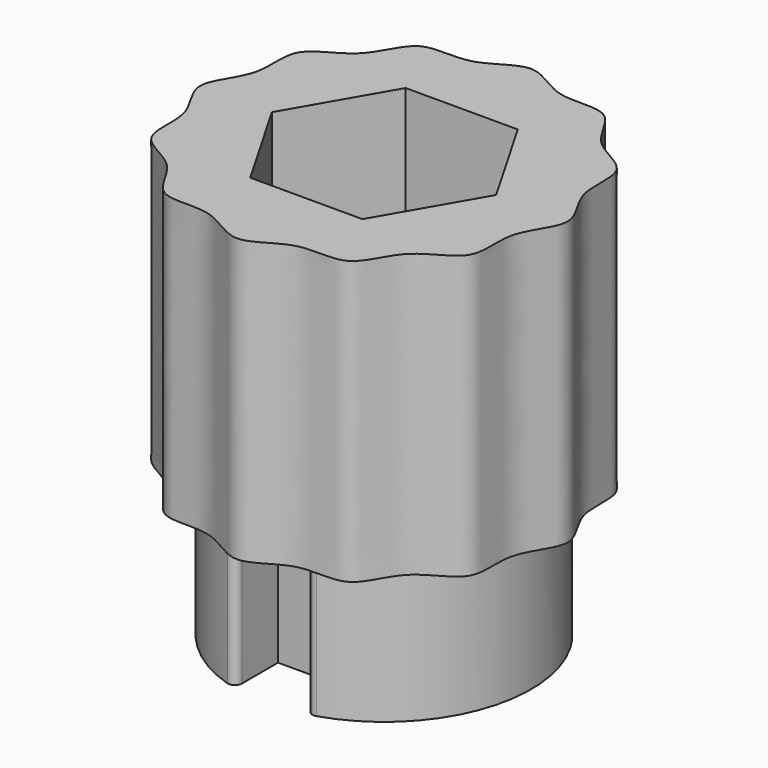
from build123d import *

# Parameters (mm, degrees)
F0_R     = 6.25
F1_DEPTH = 12
F3_DEPTH = 6
F5_D     = 6.7564
F5_DEPTH = 5
F5_TIP   = 2.0298273432
F7_DEPTH = 11
F8_SIZE2 = 2
F8_SIZE  = 2


with BuildPart() as f1:
    # F0 (on Top) → F1 (new body)
    with BuildSketch(Plane.XY):
        with BuildLine():
            add(Edge.make_bspline(
                [(0, 7.8), (0.5883139084, 7.8), (1.7648983071, 6.581238644), (4.2073373033, 7.281213243), (4.8207666232, 4.8153151324), (7.2853412597, 4.2000850536), (6.5828646863, 1.758421816), (8.4092642189, -0.0061086196), (6.5800656799, -1.7685747108), (7.2799326458, -4.209179628), (4.8151686103, -4.820620006), (4.2019286894, -7.2840624881), (1.7620993007, -6.5816954962), (0, -8.4091297457), (-1.7620993007, -6.5816954962), (-4.2019286894, -7.2840624881), (-4.8151686103, -4.820620006), (-7.2799326458, -4.209179628), (-6.5800656799, -1.7685747108), (-8.4092642189, -0.0061086196), (-6.5828646863, 1.758421816), (-7.2853412597, 4.2000850536), (-4.8207666232, 4.8153151324), (-4.2073373033, 7.281213243), (-1.7648983071, 6.581238644), (-0.5883139084, 7.8), (0, 7.8)],
                knots=[0, 0, 0, 0, 0.0416817217, 0.0833603673, 0.125041132, 0.166713492, 0.2083895228, 0.2500540709, 0.2917228585, 0.3333801616, 0.3750411367, 0.4166937036, 0.4583483907, 0.5, 0.5416516093, 0.5833062964, 0.6249588633, 0.6666198384, 0.7082771415, 0.7499459291, 0.7916104772, 0.833286508, 0.874958868, 0.9166396327, 0.9583182783, 1, 1, 1, 1], degree=3))
        make_face()
        with Locations((0.0057487868, -0.0057487868)):
            Circle(F0_R, mode=Mode.SUBTRACT)
        with Locations((0.0057487868, -0.0057487868)):
            Circle(F0_R)
    extrude(amount=F1_DEPTH)

    # F2 (on face) → F3 (join)
    with BuildSketch(Plane(origin=(0, 0, 0), x_dir=(1, 0, 0), z_dir=(0, 0, -1))):
        with BuildLine():
            ThreePointArc((-1.5, 5.6711991677), (-1.6228374909, 5.913301306), (-1.8907563025, 5.9571419829))
            ThreePointArc((-1.8907563025, 5.9571419829), (0, -6.25), (1.8907563025, 5.9571419829))
            ThreePointArc((1.8907563025, 5.9571419829), (1.6228374909, 5.913301306), (1.5, 5.6711991677))
            Line((1.5, 5.6711991677), (1.5, 3.75))
            Line((1.5, 3.75), (-1.5, 3.75))
            Line((-1.5, 3.75), (-1.5, 5.6711991677))
        make_face()
    extrude(amount=F3_DEPTH)

    # F5
    with Locations(Plane(origin=(0, 0, -6), x_dir=(1, 0, 0), z_dir=(0, 0, -1))):
        with Locations((0, 0)):
            Hole(F5_D / 2, depth=F5_DEPTH)
            with Locations((0, 0, -(F5_DEPTH + F5_TIP / 2))):  # 118° drill point
                Cone(0, F5_D / 2, F5_TIP, mode=Mode.SUBTRACT)

    # F6 (on face) → F7 (cut)
    with BuildSketch(Plane.XY.offset(12)):
        Polygon((2.3815698604, 4.125), (-2.3815698604, 4.125), (-4.7631397208, 0), (-2.3815698604, -4.125), (2.3815698604, -4.125), (4.7631397208, 0), align=None)
    extrude(amount=-F7_DEPTH, mode=Mode.SUBTRACT)

    # F8
    f8_edges = [f1.edges().sort_by_distance(p)[0] for p in [
        (3.572355, 2.0625, 1),
        (0, 4.125, 1),
        (-3.572355, 2.0625, 1),
        (-3.572355, -2.0625, 1),
        (0, -4.125, 1),
        (3.572355, -2.0625, 1),
    ]]
    chamfer(f8_edges, length=F8_SIZE, length2=F8_SIZE2)


solid = f1.part
